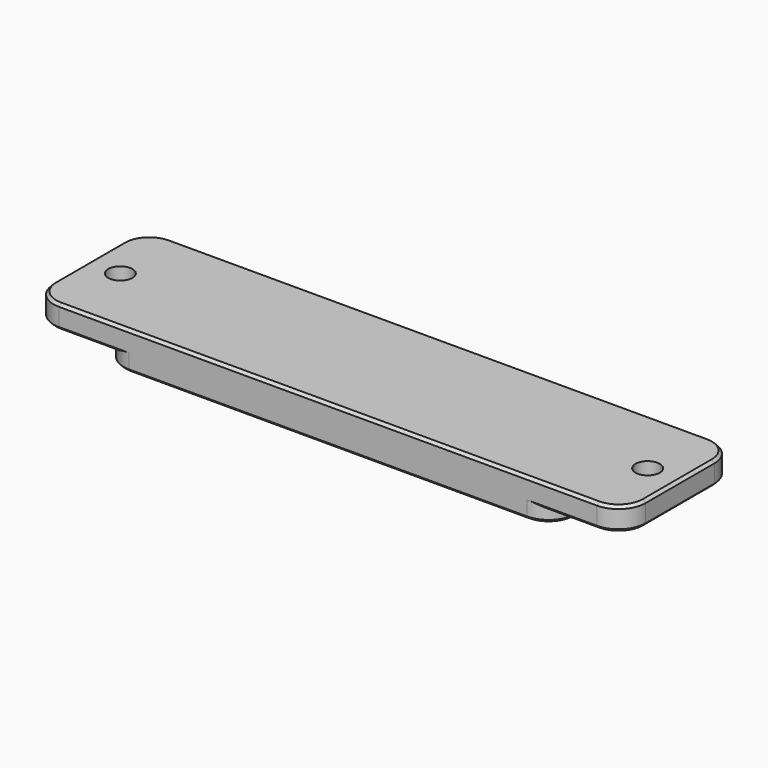
from build123d import *

# Parameters (mm, degrees)
F1_DEPTH = 2.7
F3_R     = 2.25
F4_DEPTH = 4.3
F5_SIZE  = 0.5


with BuildPart() as f1:
    # F0 (on Top) → F1 (new body)
    with BuildSketch(Plane.XY):
        with BuildLine():
            Line((37, 13), (-37, 13))
            ThreePointArc((-37, 13), (-40.535534, 11.535534), (-42, 8))
            Line((-42, 8), (-42, -8))
            ThreePointArc((-42, -8), (-40.535534, -11.535534), (-37, -13))
            Line((-37, -13), (37, -13))
            ThreePointArc((37, -13), (40.535534, -11.535534), (42, -8))
            Line((42, -8), (42, 8))
            ThreePointArc((42, 8), (40.535534, 11.535534), (37, 13))
        make_face()
    extrude(amount=F1_DEPTH)

    # F3 (on face) → F4 (join, through all)
    with BuildSketch(Plane.XY.offset(2.7)):
        with BuildLine():
            Line((37, 13), (-37, 13))
            ThreePointArc((-37, 13), (-40.535534, 11.535534), (-42, 8))
            Line((-42, 8), (-42, -8))
            ThreePointArc((-42, -8), (-40.535534, -11.535534), (-37, -13))
            Line((-37, -13), (37, -13))
            ThreePointArc((37, -13), (40.535534, -11.535534), (42, -8))
            Line((42, -8), (42, 8))
            ThreePointArc((42, 8), (40.535534, 11.535534), (37, 13))
        make_face()
        with BuildLine():
            Line((50, 13), (37, 13))
            ThreePointArc((37, 13), (40.535534, 11.535534), (42, 8))
            Line((42, 8), (42, -8))
            ThreePointArc((42, -8), (40.535534, -11.535534), (37, -13))
            Line((37, -13), (50, -13))
            ThreePointArc((50, -13), (53.535534, -11.535534), (55, -8))
            Line((55, -8), (55, 8))
            ThreePointArc((55, 8), (53.535534, 11.535534), (50, 13))
        make_face()
        with Locations((49, 0)):
            Circle(F3_R, mode=Mode.SUBTRACT)
        with BuildLine():
            Line((-37, 13), (-50, 13))
            ThreePointArc((-50, 13), (-53.535534, 11.535534), (-55, 8))
            Line((-55, 8), (-55, -8))
            ThreePointArc((-55, -8), (-53.535534, -11.535534), (-50, -13))
            Line((-50, -13), (-37, -13))
            ThreePointArc((-37, -13), (-40.535534, -11.535534), (-42, -8))
            Line((-42, -8), (-42, 8))
            ThreePointArc((-42, 8), (-40.535534, 11.535534), (-37, 13))
        make_face()
        with Locations((-49, 0)):
            Circle(F3_R, mode=Mode.SUBTRACT)
    extrude(amount=F4_DEPTH)

    # F5
    f5_edges = [f1.edges().sort_by_distance(p)[0] for p in [
        (0, -13, 0),
        (46.75, 0, 2.7),
        (-51.25, 0, 2.7),
        (43.5, 13, 2.7),
        (-43.5, 13, 2.7),
        (0, 13, 7),
    ]]
    chamfer(f5_edges, length=F5_SIZE)


solid = f1.part
